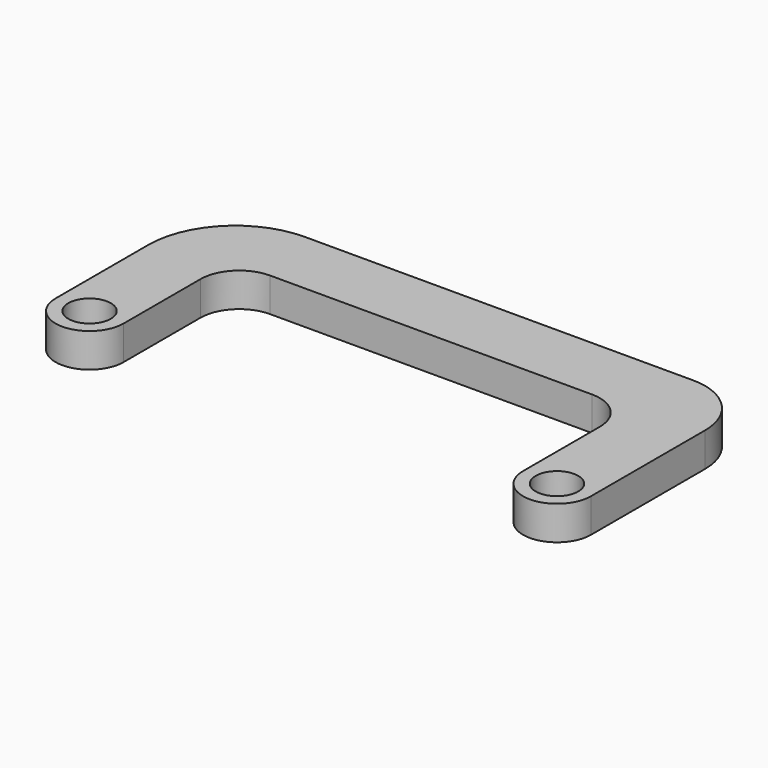
from build123d import *

# Parameters (mm, degrees)
CYLINDER011_R     = 2.5
CYLINDER011_DEPTH = 7.5
CYLINDER010_R     = 2.5
CYLINDER010_DEPTH = 7.5
EXTRUDE_DEPTH     = 4


with BuildPart() as cilindro010:
    # Cylinder011 → Cylinder011 (new body)
    with BuildSketch(Plane(origin=(27.5, 12, 5), x_dir=(1, 0, 0), z_dir=(0, 0, 1))):
        Circle(CYLINDER011_R)
    extrude(amount=CYLINDER011_DEPTH)


with BuildPart() as fusion002:
    # Cylinder010 → Cylinder010 (new body)
    with BuildSketch(Plane(origin=(-27.5, 12, 5), x_dir=(1, 0, 0), z_dir=(0, 0, 1))):
        Circle(CYLINDER010_R)
    extrude(amount=CYLINDER010_DEPTH)

    # Fusion002: union Cilindro010
    add(cilindro010.part)


with BuildPart() as obj1:
    # Sketch003 (on Face2 of Cylinder008) → Extrude (new body)
    with BuildSketch(Plane(origin=(0, 12, 1.5), x_dir=(1, 0, 0), z_dir=(0, 0, 1))):
        with BuildLine():
            Line((-23.5, 0), (-23.5, 11.330372))
            ThreePointArc((-18.962486, 15.867886), (-22.170993, 14.538879), (-23.5, 11.330372))
            Line((-18.962486, 15.867886), (18.940419, 15.867886))
            ThreePointArc((23.5, 11.308305), (22.16453, 14.532416), (18.940419, 15.867886))
            Line((23.5, 11.308305), (23.5, 0))
            ThreePointArc((23.5, 0), (27.5, -4), (31.5, 0))
            Line((31.5, 0), (31.5, 16.785542))
            ThreePointArc((31.5, 16.785542), (29.425629, 21.793515), (24.417656, 23.867886))
            Line((24.417656, 23.867886), (-21.265535, 23.867886))
            ThreePointArc((-21.265535, 23.867886), (-28.502395, 20.870281), (-31.5, 13.633421))
            Line((-31.5, 13.633421), (-31.5, 0))
            ThreePointArc((-31.5, 0), (-27.5, -4), (-23.5, 0))
        make_face()
    extrude(amount=EXTRUDE_DEPTH)


with BuildPart() as obj1_1:
    # Extrude placement: moved
    add(obj1.part.moved(Location((0, 0, 5))))

    # Cut002: cut Fusion002
    add(fusion002.part, mode=Mode.SUBTRACT)


solid = obj1_1.part
